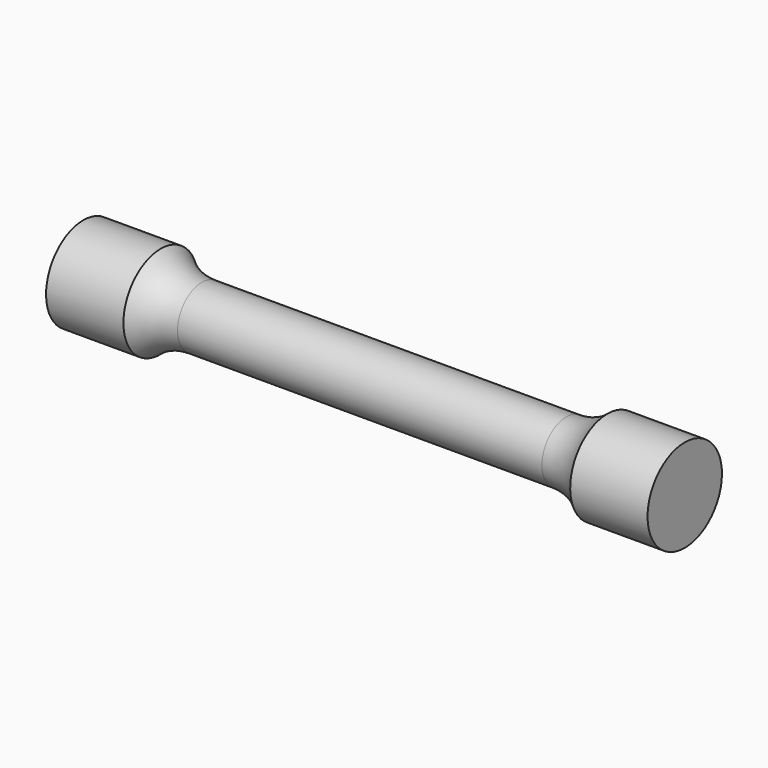
from build123d import *


with BuildPart() as f1:
    # F0 (on Front) → F1 (revolve)
    with BuildSketch(Plane.XZ):
        with BuildLine():
            Line((18, 3), (0, 3))
            Line((0, 3), (-18, 3))
            ThreePointArc((-18, 3), (-20.186396, 3.412543), (-22.072131, 4.593442))
            Line((-22.072131, 4.593442), (-29.716981, 4.593442))
            Line((-29.716981, 4.593442), (-29.716981, 0))
            Line((-29.716981, 0), (0, 0))
            Line((0, 0), (29.716981, 0))
            Line((29.716981, 0), (29.716981, 4.593442))
            Line((29.716981, 4.593442), (22.072131, 4.593442))
            ThreePointArc((22.072131, 4.593442), (20.186396, 3.412543), (18, 3))
        make_face()
    revolve(axis=Axis((14.85849, 0, 0), (1, 0, 0)))


solid = f1.part
